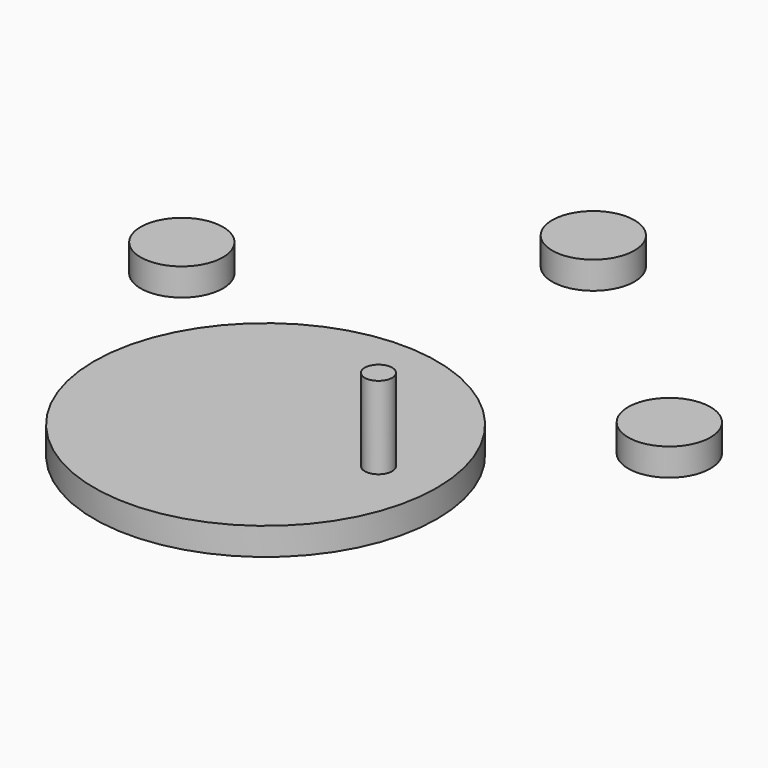
from build123d import *

# Parameters (mm, degrees)
F0_R     = 125
F0_R_2   = 30
F1_DEPTH = 20
F2_R     = 10
F3_DEPTH = 60


with BuildPart() as f1:
    # F0 (on Top) → F1 (new body)
    with BuildSketch(Plane.XY):
        Circle(F0_R)
        with Locations((177.722067, 145.814583)):
            Circle(F0_R_2)
        with Locations((-177.722067, 145.814583)):
            Circle(F0_R_2)
        with Locations((0, 298.68421)):
            Circle(F0_R_2)
    extrude(amount=F1_DEPTH)

    # F2 (on face) → F3 (join)
    with BuildSketch(Plane.XY.offset(20)):
        with Locations((82.314318, 0)):
            Circle(F2_R)
    extrude(amount=F3_DEPTH)


solid = f1.part
